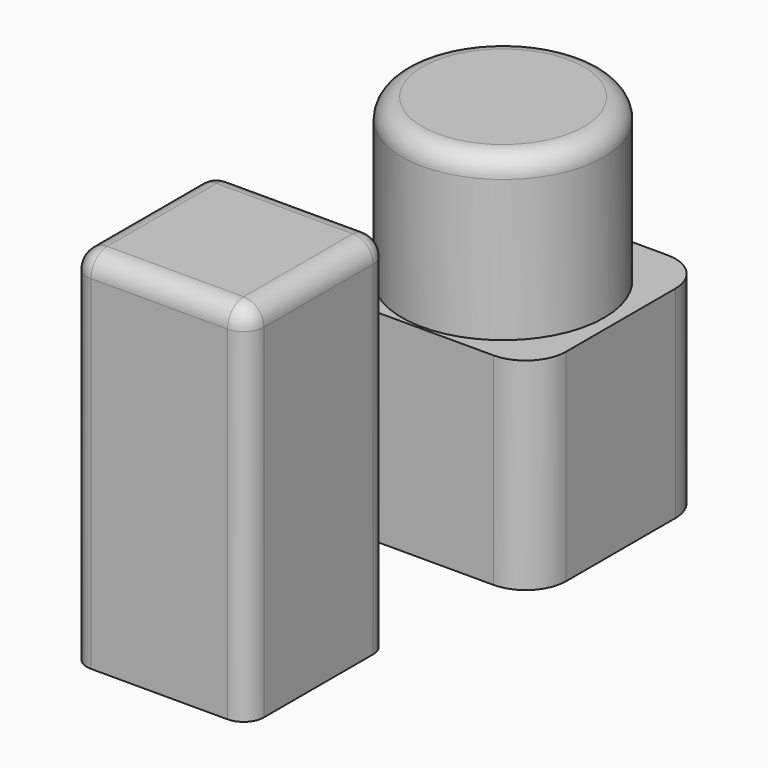
from build123d import *

# Parameters (mm, degrees)
F0_W     = 10.75
F0_H     = 10.75
F0_W_2   = 6.75
F0_H_2   = 6.75
F1_DEPTH = 10
F2_DEPTH = 2.5
F3_R     = 5
F4_DEPTH = 8
F5_R     = 2
F6_R     = 1
F7_W     = 8.75
F7_H     = 8.75
F7_W_2   = 6.75
F7_H_2   = 6.75
F8_DEPTH = 18
F9_DEPTH = 2.5
F10_R    = 1


with BuildPart() as f1:
    # F0 (on Top) → F1 (new body)
    with BuildSketch(Plane.XY):
        with Locations((0.25, 0.25)):
            Rectangle(F0_W, F0_H)
        with Locations((0.25, 0.25)):
            Rectangle(F0_W_2, F0_H_2, mode=Mode.SUBTRACT)
        with Locations((0.25, 0.25)):
            Rectangle(F0_W_2, F0_H_2)
    extrude(amount=F1_DEPTH)

    # F0 (on Top) → F2 (cut)
    with BuildSketch(Plane.XY):
        with Locations((0.25, 0.25)):
            Rectangle(F0_W_2, F0_H_2)
    extrude(amount=F2_DEPTH, mode=Mode.SUBTRACT)

    # F3 (on face) → F4 (join)
    with BuildSketch(Plane.XY.offset(10)):
        Circle(F3_R)
    extrude(amount=F4_DEPTH)

    # F5
    f5_edges = [f1.edges().sort_by_distance(p)[0] for p in [
        (-5.125, -5.125, 5),
        (5.625, -5.125, 5),
        (5.625, 5.625, 5),
        (-5.125, 5.625, 5),
    ]]
    fillet(f5_edges, radius=F5_R)

    # F6
    f6_edges = [f1.edges().sort_by_distance(p)[0] for p in [
        (-5, 0, 18),
    ]]
    fillet(f6_edges, radius=F6_R)


with BuildPart() as f8:
    # F7 (on Top) → F8 (new body)
    with BuildSketch(Plane.XY):
        with Locations((-0.75, -15.951462)):
            Rectangle(F7_W, F7_H)
        with Locations((-0.75, -15.951462)):
            Rectangle(F7_W_2, F7_H_2, mode=Mode.SUBTRACT)
        with Locations((-0.75, -15.951462)):
            Rectangle(F7_W_2, F7_H_2)
    extrude(amount=F8_DEPTH)

    # F7 (on Top) → F9 (cut)
    with BuildSketch(Plane.XY):
        with Locations((-0.75, -15.951462)):
            Rectangle(F7_W_2, F7_H_2)
    extrude(amount=F9_DEPTH, mode=Mode.SUBTRACT)

    # F10
    f10_edges = [f8.edges().sort_by_distance(p)[0] for p in [
        (-5.125, -11.576462, 9),
        (3.625, -11.576462, 9),
        (-5.125, -20.326462, 9),
        (3.625, -20.326462, 9),
        (-5.125, -15.951462, 18),
        (-0.75, -20.326462, 18),
        (3.625, -15.951462, 18),
        (-0.75, -11.576462, 18),
    ]]
    fillet(f10_edges, radius=F10_R)


solid = Compound([f1.part, f8.part])
